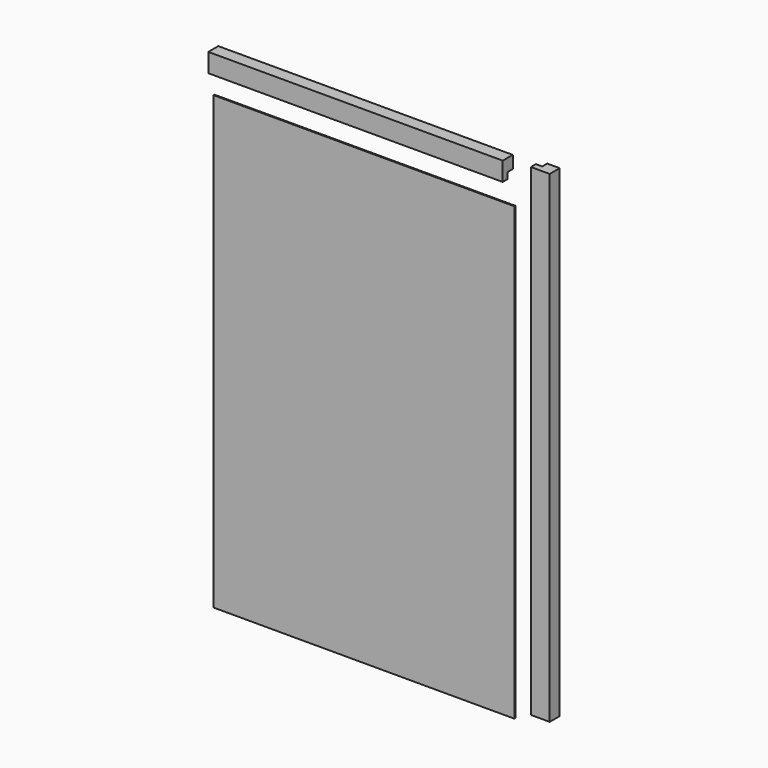
from build123d import *

# Parameters (mm, degrees)
F0_W     = 609.6
F0_H     = 914.4
F1_DEPTH = 2.38125
F3_W     = 38.1
F3_H     = 977.9
F4_DEPTH = 25.4
F2_W     = 596.9
F2_H     = 38.1
F5_DEPTH = 25.4
F6_W     = 12.7
F6_H     = 12.7
F7_DEPTH = 609.6
F8_W     = 12.7
F8_H     = 12.7
F9_DEPTH = 977.901


with BuildPart() as f1:
    # F0 (on Front) → F1 (new body)
    with BuildSketch(Plane.XZ):
        Rectangle(F0_W, F0_H)
    extrude(amount=F1_DEPTH)


with BuildPart() as f4:
    # F3 (on Front) → F4 (new body)
    with BuildSketch(Plane.XZ):
        with Locations((375.770703, 64.631486)):
            Rectangle(F3_W, F3_H)
    extrude(amount=F4_DEPTH)

    # F8 (on face) → F9 (cut, through all)
    with BuildSketch(Plane(origin=(0, 0, -424.318514), x_dir=(1, 0, 0), z_dir=(0, 0, -1))):
        with Locations((363.070703, 6.35)):
            Rectangle(F8_W, F8_H)
    extrude(amount=-F9_DEPTH, mode=Mode.SUBTRACT)


with BuildPart() as f5:
    # F2 (on Front) → F5 (new body)
    with BuildSketch(Plane.XZ):
        with Locations((1.151833, 527.320564)):
            Rectangle(F2_W, F2_H)
    extrude(amount=F5_DEPTH)

    # F6 (on face) → F7 (cut)
    with BuildSketch(Plane(origin=(-297.298167, 0, 0), x_dir=(0, -1, 0), z_dir=(-1, 0, 0))):
        with Locations((6.35, 514.620564)):
            Rectangle(F6_W, F6_H)
    extrude(amount=-F7_DEPTH, mode=Mode.SUBTRACT)


solid = Compound([f1.part, f4.part, f5.part])
